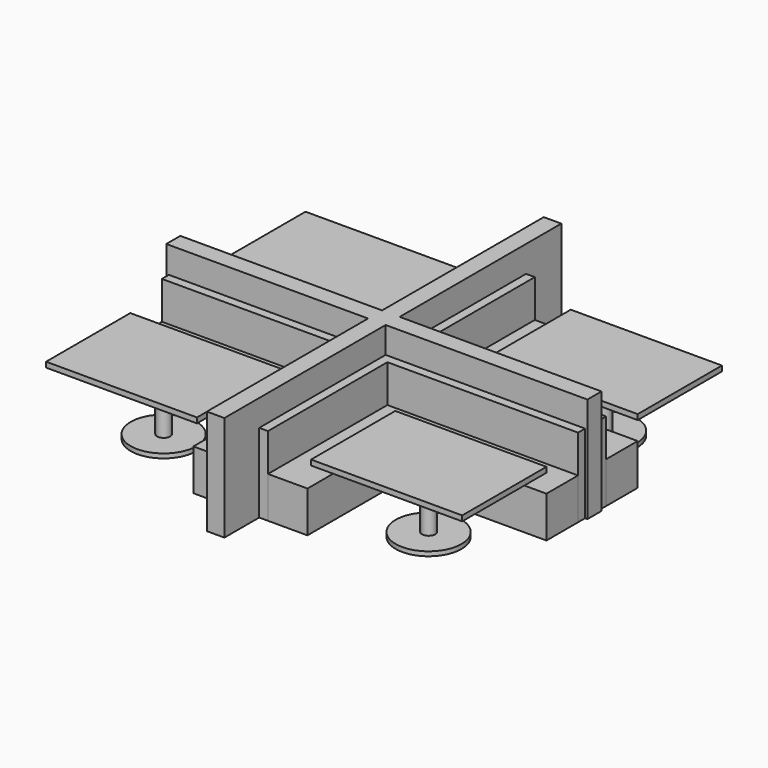
from build123d import *

# Parameters (mm, degrees)
F6_DEPTH  = 470
F8_DEPTH  = 1200
F10_DEPTH = 900
F12_W     = 1723.014453
F12_H     = 1200
F12_W_2   = 1720.014453
F13_DEPTH = 60
F14_R     = 375
F15_DEPTH = 50
F16_R     = 75
F17_DEPTH = 630


with BuildPart() as f6:
    # F5 (on offset) → F6 (new body)
    with BuildSketch(Plane.XY.offset(470)):
        Polygon((-650, 650), (-2373.014453, 650), (-2373.014453, 200), (-200, 200), (-200, 1899.996675), (-650, 1899.996675), align=None)
        Polygon((650, 650), (650, 1899.996675), (200, 1899.996675), (200, 200), (2373.014453, 200), (2373.014453, 650), align=None)
        Polygon((-200, -1901.196675), (-200, -200), (-2370.014453, -200), (-2370.014453, -650), (-650, -650), (-650, -1901.196675), align=None)
        Polygon((200, -1901.196675), (650, -1901.196675), (650, -650), (2373.014453, -650), (2373.014453, -200), (200, -200), align=None)
    extrude(amount=-F6_DEPTH)


with BuildPart() as f8:
    # F7 (on offset) → F8 (new body)
    with BuildSketch(Plane.XY.offset(1200)):
        Polygon((100, 2403.028913), (-100, 2403.028913), (-100, 100), (-2400, 100), (-2400, -100), (-100, -100), (-100, -2396.971087), (100, -2396.971087), (100, -100), (2400, -100), (2400, 100), (100, 100), align=None)
    extrude(amount=-F8_DEPTH)


with BuildPart() as f10:
    # F9 (on offset) → F10 (new body)
    with BuildSketch(Plane.XY.offset(900)):
        Polygon((-100, -100), (-2370.014453, -100), (-2370.014453, -200), (-200, -200), (-200, -1901.196675), (-100, -1901.196675), align=None)
        Polygon((100, -1901.196675), (200, -1901.196675), (200, -200), (2373.014453, -200), (2373.014453, -100), (100, -100), align=None)
        Polygon((-100, 1899.996675), (-200, 1899.996675), (-200, 200), (-2373.014453, 200), (-2373.014453, 100), (-100, 100), align=None)
        Polygon((200, 200), (200, 1899.996675), (100, 1899.996675), (100, 100), (2373.014453, 100), (2373.014453, 200), align=None)
    extrude(amount=-F10_DEPTH)


with BuildPart() as f13:
    # F12 (on offset) → F13 (new body)
    with BuildSketch(Plane.XY.offset(740)):
        with Locations((-1511.507226, 1250)):
            Rectangle(F12_W, F12_H)
        with Locations((-1510.007226, -1250)):
            Rectangle(F12_W_2, F12_H)
        with Locations((1511.507226, -1250)):
            Rectangle(F12_W, F12_H)
        with Locations((1511.507226, 1250)):
            Rectangle(F12_W, F12_H)
    extrude(amount=-F13_DEPTH)


with BuildPart() as f15:
    # F14 (on Top) → F15 (new body)
    with BuildSketch(Plane.XY):
        with Locations((-1510, 1250)):
            Circle(F14_R)
        with Locations((-1510, -1250)):
            Circle(F14_R)
        with Locations((1510, 1250)):
            Circle(F14_R)
        with Locations((1510, -1250)):
            Circle(F14_R)
    extrude(amount=F15_DEPTH)


with BuildPart() as f17:
    # F16 (on face) → F17 (new body, through all)
    with BuildSketch(Plane.XY.offset(50)):
        with Locations((-1510, 1250)):
            Circle(F16_R)
        with Locations((1510, 1250)):
            Circle(F16_R)
        with Locations((-1510, -1250)):
            Circle(F16_R)
        with Locations((1510, -1250)):
            Circle(F16_R)
    extrude(amount=F17_DEPTH)


solid = Compound([f6.part, f8.part, f10.part, f13.part, f15.part, f17.part])
